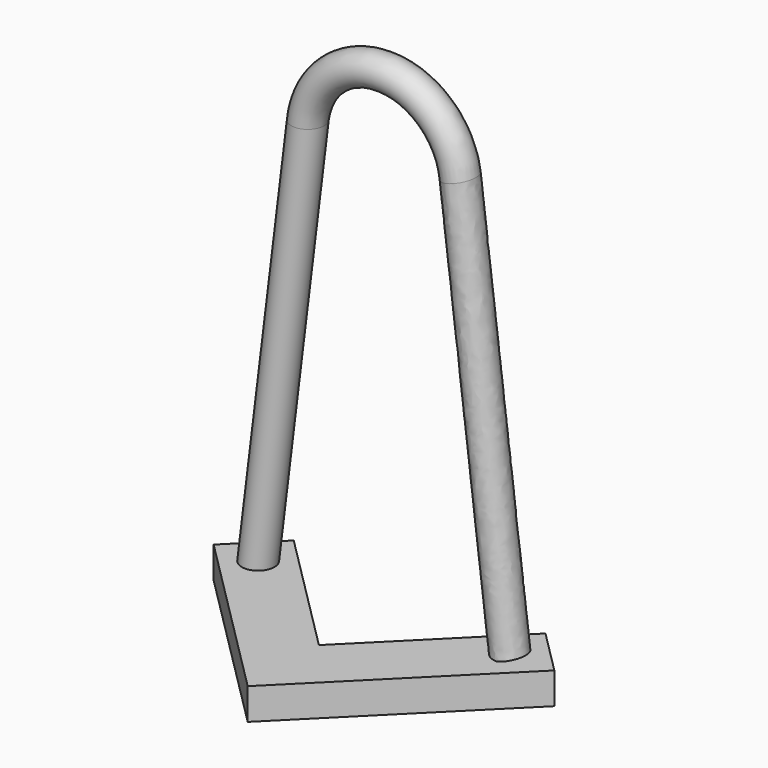
from build123d import *

# Parameters (mm, degrees)
F1_R     = 1.651
F4_DEPTH = 3.175


with BuildPart() as f2:
    # F2: sweep along a path in F0
    with BuildLine(Plane.XZ) as f2_path:
        Line((-12.7, 0), (-7.687481, 40.823691))
        ThreePointArc((-7.687481, 40.823691), (0, 47.625), (7.687481, 40.823691))
        Line((7.687481, 40.823691), (12.7, 0))
    # F1 (on Top) → F2 (sweep)
    with BuildSketch(Plane.XY):
        with Locations((-12.7, 0)):
            Circle(F1_R)
    sweep(path=f2_path.line)

    # F3 (on Top) → F4 (join)
    with BuildSketch(Plane.XY):
        Polygon((-17.190128, 0), (0, -17.190128), (0, -8.209872), (-12.7, 4.490128), align=None)
        Polygon((0, -8.209872), (0, -17.190128), (17.190128, 0), (12.7, 4.490128), align=None)
    extrude(amount=-F4_DEPTH)


solid = f2.part
